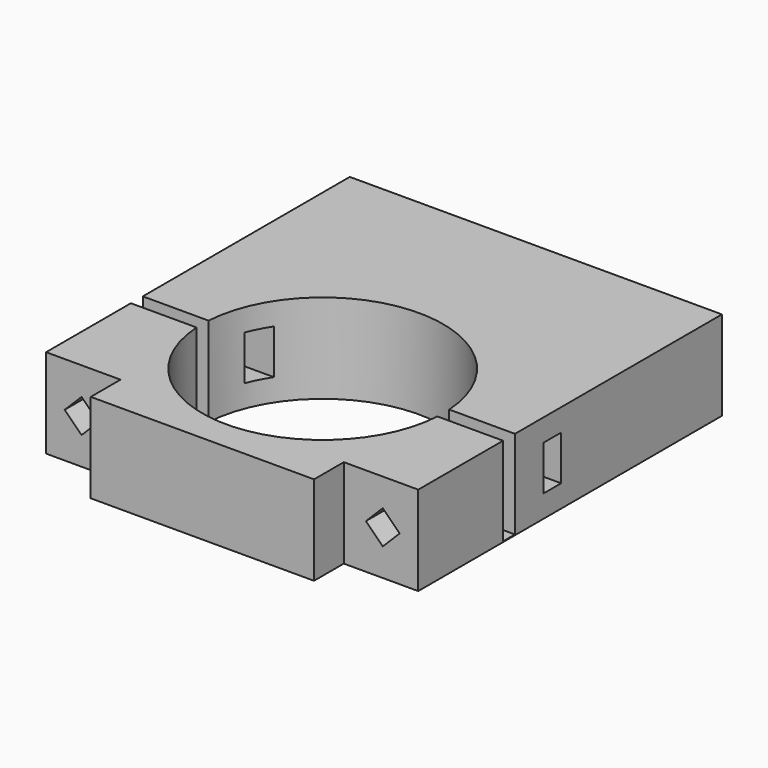
from build123d import *

# Parameters (mm, degrees)
SKETCH_W        = 50
SKETCH_H        = 56
PAD_DEPTH       = 12
SKETCH001_R     = 16.2
POCKET_DEPTH    = 12.001
POCKET001_DEPTH = 56.001
SKETCH003_W     = 3
SKETCH003_H     = 6
POCKET002_DEPTH = 50.001
SKETCH004_W     = 72.31723
SKETCH004_H     = 2
POCKET003_DEPTH = 11.9
SKETCH005_W     = 25.040878
SKETCH005_H     = 17.68627
SKETCH005_W_2   = 12.208063
SKETCH005_H_2   = 50.590956
POCKET004_DEPTH = 5


with BuildPart() as part:
    # Sketch → Pad (new body)
    with BuildSketch(Plane.XY):
        Rectangle(SKETCH_W, SKETCH_H)
    extrude(amount=PAD_DEPTH)

    # Sketch001 → Pocket (cut, through all)
    with BuildSketch(Plane.XY.offset(12)):
        with Locations((0, -7.8)):
            Circle(SKETCH001_R)
    extrude(amount=-POCKET_DEPTH, mode=Mode.SUBTRACT)

    # Sketch002 → Pocket001 (cut, through all)
    with BuildSketch(Plane.XZ.offset(28)):
        Polygon((-22.5, 6), (-20.237258, 8.262742), (-17.974517, 6), (-20.237258, 3.737258), align=None)
        Polygon((17.974517, 6), (20.237258, 8.262742), (22.5, 6), (20.237258, 3.737258), align=None)
    extrude(amount=-POCKET001_DEPTH, mode=Mode.SUBTRACT)

    # Sketch003 → Pocket002 (cut, through all)
    with BuildSketch(Plane.YZ.offset(25)):
        with Locations((-0.5, 6)):
            Rectangle(SKETCH003_W, SKETCH003_H)
    extrude(amount=-POCKET002_DEPTH, mode=Mode.SUBTRACT)

    # Sketch004 → Pocket003 (cut)
    with BuildSketch(Plane.XY.offset(12)):
        with Locations((1.135831, -7.756839)):
            Rectangle(SKETCH004_W, SKETCH004_H)
    extrude(amount=-POCKET003_DEPTH, mode=Mode.SUBTRACT)

    # Sketch005 → Pocket004 (cut)
    with BuildSketch(Plane.XZ.offset(28)):
        with Locations((-27.520439, 4.662494)):
            Rectangle(SKETCH005_W, SKETCH005_H)
        with Locations((21.104031, -3.872155)):
            Rectangle(SKETCH005_W_2, SKETCH005_H_2)
    extrude(amount=-POCKET004_DEPTH, mode=Mode.SUBTRACT)


solid = part.part
